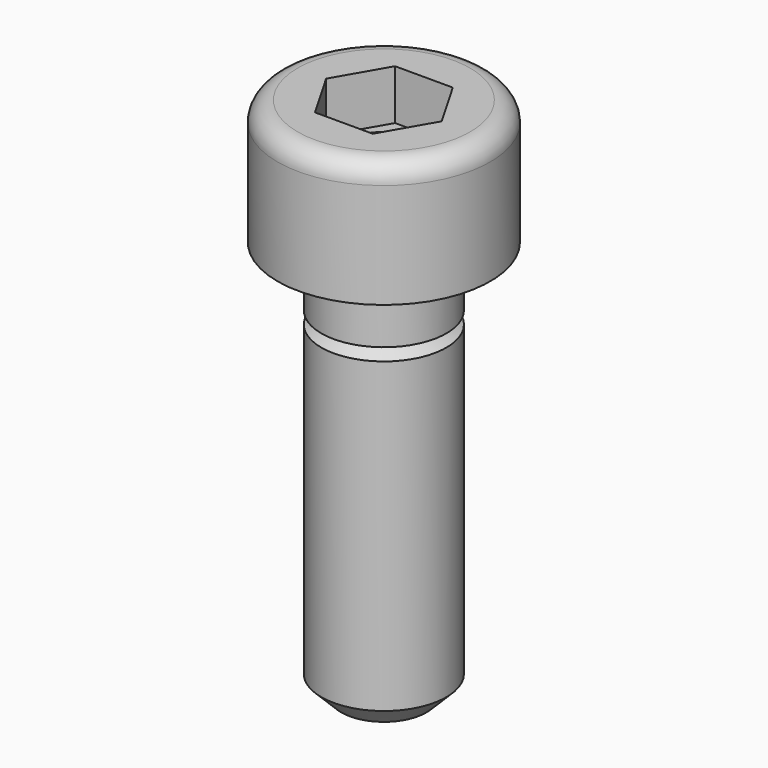
from build123d import *

# Parameters (mm, degrees)
F2_R     = 0.8
F3_SIZE  = 0.8
F5_DEPTH = 2
F6_SIZE2 = 0.25
F6_SIZE  = 0.4330127019


with BuildPart() as f1:
    # F0 (on Front) → F1 (revolve)
    with BuildSketch(Plane.XZ):
        Polygon((-2.5, 0), (0, 0), (0, 17.2783121635), (-1.25, 18), (-1.25, 21), (-4.25, 21), (-4.25, 16), (-2.5, 16), (-2.5, 13.6), (-2, 13.35), (-2.5, 13.1), align=None)
    revolve(axis=Axis((0, 0, 18.332445994), (0, 0, 1)))

    # F2
    f2_edges = [f1.edges().sort_by_distance(p)[0] for p in [
        (4.25, 0, 21),
    ]]
    fillet(f2_edges, radius=F2_R)

    # F3
    f3_edges = [f1.edges().sort_by_distance(p)[0] for p in [
        (2.5, 0, 0),
    ]]
    chamfer(f3_edges, length=F3_SIZE)

    # F4 (on face) → F5 (cut)
    with BuildSketch(Plane.XY.offset(21)):
        Polygon((-1.1547005384, -2), (1.1547005384, -2), (2.3094010768, 0), (1.1547005384, 2), (-1.1547005384, 2), (-2.3094010768, 0), align=None)
    extrude(amount=-F5_DEPTH, mode=Mode.SUBTRACT)

    # F6
    f6_edges = [f1.edges().sort_by_distance(p)[0] for p in [
        (1.25, 0, 19),
    ]]
    f6_side = f1.faces().sort_by_distance((-1.679136, -0.969449, 19))[0]
    chamfer(f6_edges, length=F6_SIZE, length2=F6_SIZE2, reference=f6_side)


solid = f1.part
